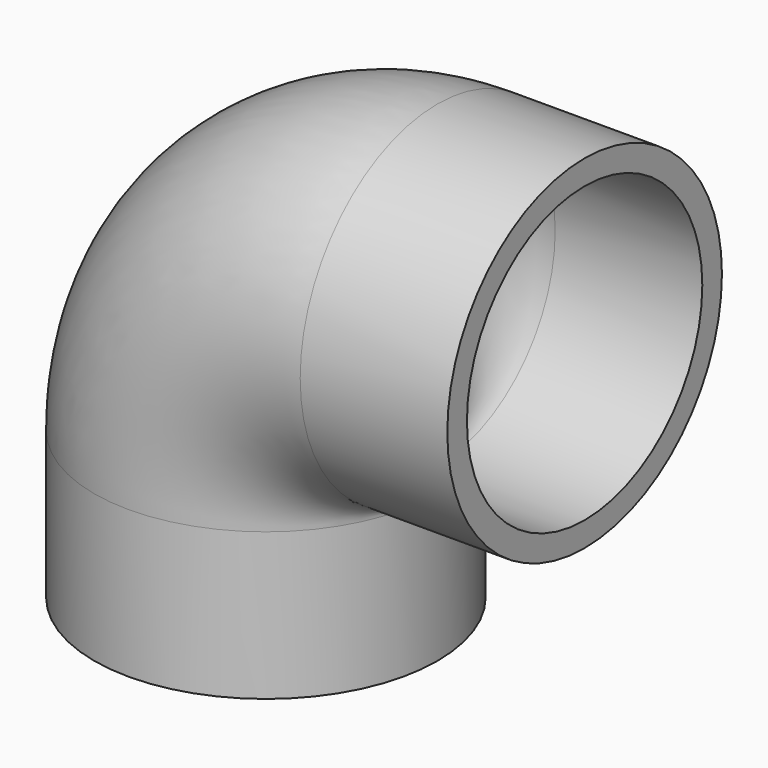
from build123d import *

# Parameters (mm, degrees)
F0_R     = 66.675
F0_R_2   = 57.15
F1_DEPTH = 57.15
F2_R     = 66.675
F2_R_2   = 57.15
F3_ANGLE = 90
F4_DEPTH = 57.15


with BuildPart() as f1:
    # F0 (on Top) → F1 (new body)
    with BuildSketch(Plane.XY):
        Circle(F0_R)
        Circle(F0_R_2, mode=Mode.SUBTRACT)
    extrude(amount=F1_DEPTH)

    # F2 (on face) → F3 (revolve)
    with BuildSketch(Plane.XY.offset(57.15)):
        Circle(F2_R)
        Circle(F2_R_2, mode=Mode.SUBTRACT)
    revolve(axis=Axis((66.675, 23.7479880452, 57.15), (0, 1, 0)), revolution_arc=F3_ANGLE)

    # F4 (add): a face of the model
    f4_faces = [f1.faces().sort_by_distance(p)[0] for p in [
        (66.675, 0, 188.6141462146),
    ]]
    extrude(f4_faces, amount=F4_DEPTH)


solid = f1.part
